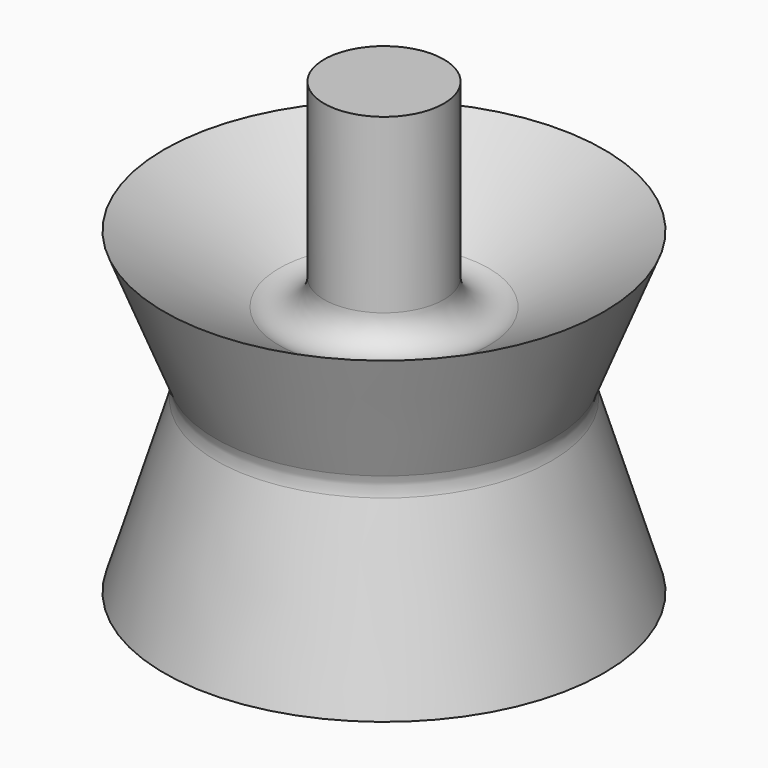
from build123d import *


with BuildPart() as f1:
    # F0 (on Front) → F1 (revolve)
    with BuildSketch(Plane.XZ):
        with BuildLine():
            Line((0, 41.156225), (0, 0))
            Line((0, 0), (3.752797, 9.381992))
            ThreePointArc((3.752797, 9.381992), (4.979252, 10.638726), (6.735132, 10.660135))
            Line((6.735132, 10.660135), (16.911071, 6.58976))
            Line((16.911071, 6.58976), (12.900823, 19.660535))
            ThreePointArc((12.900823, 19.660535), (12.801875, 20.428473), (12.964007, 21.185595))
            Line((12.964007, 21.185595), (16.911071, 31.053254))
            Line((16.911071, 31.053254), (8.05369, 25.895969))
            ThreePointArc((8.05369, 25.895969), (5.755713, 25.889639), (4.604893, 27.878697))
            Line((4.604893, 27.878697), (4.604893, 41.156225))
            Line((4.604893, 41.156225), (0, 41.156225))
        make_face()
    revolve(axis=Axis((0, 0, 20.578112), (0, 0, -1)))


solid = f1.part
